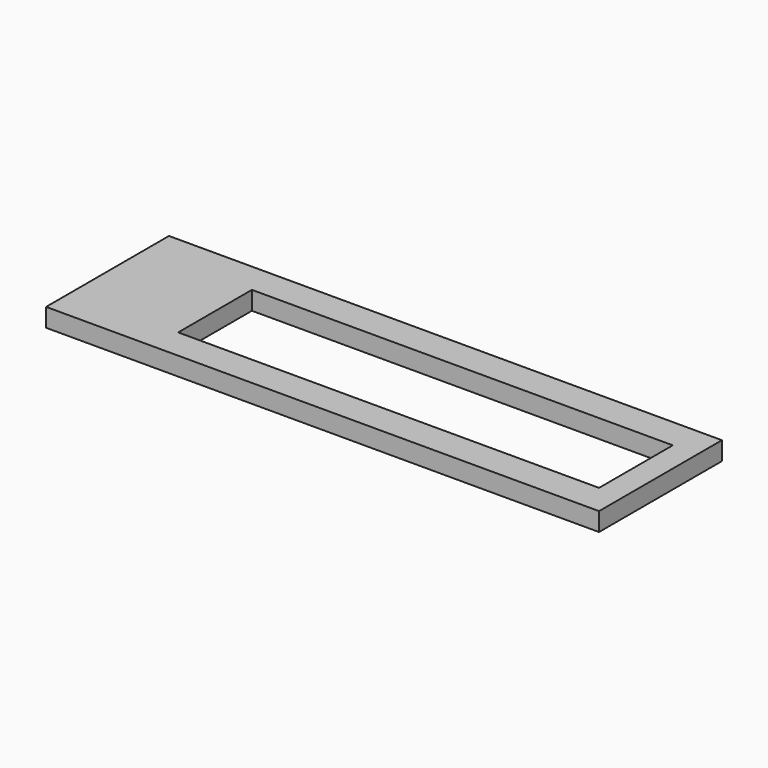
from build123d import *

# Parameters (mm, degrees)
SKETCH_W     = 180
SKETCH_H     = 50
PAD_DEPTH    = 6
SKETCH001_W  = 137
SKETCH001_H  = 30
POCKET_DEPTH = 10


with BuildPart() as part:
    # Sketch → Pad (new body)
    with BuildSketch(Plane.XY):
        with Locations((90, 25)):
            Rectangle(SKETCH_W, SKETCH_H)
    extrude(amount=PAD_DEPTH)

    # Sketch001 (on Face6 of Pad) → Pocket (cut)
    with BuildSketch(Plane.XY.offset(6)):
        with Locations((103.5, 25)):
            Rectangle(SKETCH001_W, SKETCH001_H)
    extrude(amount=-POCKET_DEPTH, mode=Mode.SUBTRACT)


solid = part.part
